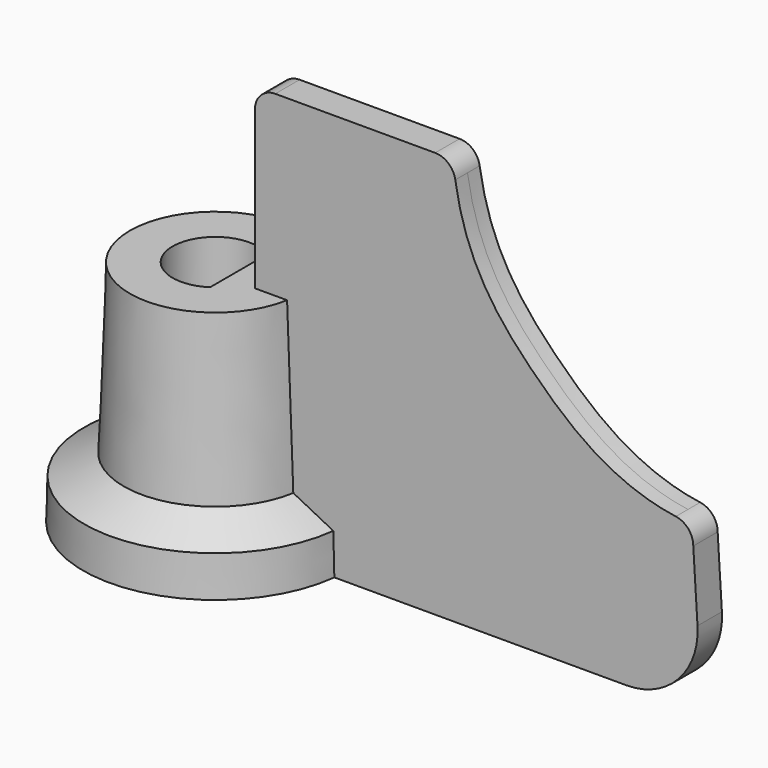
from build123d import *

# Parameters (mm, degrees)
F3_DEPTH = 1.5
F6_DEPTH = 19.5


with BuildPart() as f1:
    # F0 (on Front) → F1 (revolve)
    with BuildSketch(Plane.XZ):
        Polygon((4.2, 22.5), (4.2, 0), (13, 0), (12.9, 3.9987498046), (9, 6), (8.4, 22.5), align=None)
    revolve(axis=Axis((0, 0, 11.0757909857), (0, 0, -1)))

    # F2 (on Front) → F3 (join, symmetric)
    with BuildSketch(Plane.XZ):
        with BuildLine():
            ThreePointArc((24.8114139417, 38.3041779305), (24.1369176585, 39.5179518867), (22.8346803262, 40))
            Line((22.8346803262, 40), (7.1, 40))
            ThreePointArc((7.1, 40), (5.6857864376, 39.4142135624), (5.1, 38))
            Line((5.1, 38), (5.1, 0))
            Line((5.1, 0), (41.6566307042, 0))
            ThreePointArc((41.6566307042, 0), (46.7559189862, 2.2044542524), (48.6434507718, 7.4293545666))
            Line((48.6434507718, 7.4293545666), (48.2270230711, 14.2058177569))
            ThreePointArc((48.2270230711, 14.2058177569), (47.7443600045, 15.5294895472), (46.5087443093, 16.2064862223))
            add(Edge.make_bspline(
                [(24.8114139417, 38.3041779305), (25.8400232101, 31.6196478767), (31.7867109711, 23.9952449135), (40.4234775152, 17.0719607824), (46.5087443093, 16.2064862223)],
                knots=[0.037485554, 0.037485554, 0.037485554, 0.037485554, 0.4963538741, 0.9396396059, 0.9396396059, 0.9396396059, 0.9396396059], degree=3))
        make_face()
    extrude(amount=F3_DEPTH, both=True)

    # F5 (on offset) → F6 (join)
    with BuildSketch(Plane.XY.offset(3)):
        with BuildLine():
            Line((2.3, 3.5142566782), (2.3, -3.5142566782))
            ThreePointArc((2.3, -3.5142566782), (4.2, 0), (2.3, 3.5142566782))
        make_face()
    extrude(amount=F6_DEPTH)


solid = f1.part
